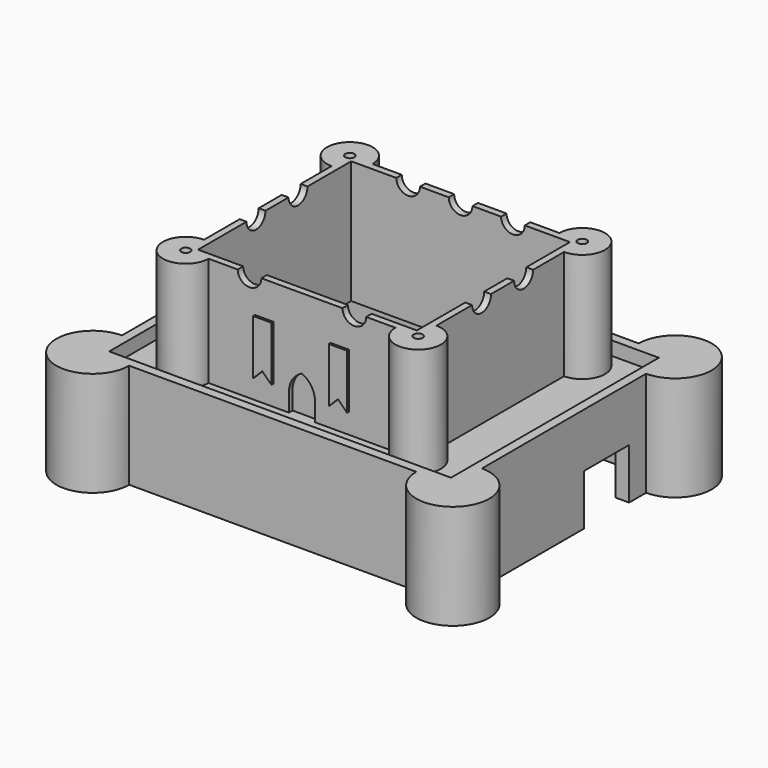
from build123d import *

# Parameters (mm, degrees)
SKETCH_W        = 79
SKETCH_H        = 61
SKETCH_W_2      = 73
SKETCH_H_2      = 55
PAD_DEPTH       = 17
SKETCH001_W     = 12.386978
SKETCH001_H     = 11.131831
POCKET_DEPTH    = 3
SKETCH002_W     = 79
SKETCH002_H     = 61
PAD001_DEPTH    = 3
PAD002_DEPTH    = 24
SKETCH004_W     = 48
SKETCH004_H     = 42
POCKET001_DEPTH = 44.001
SKETCH005_R     = 2.6
POCKET002_DEPTH = 65.001
SKETCH006_R     = 2.6
POCKET003_DEPTH = 53.001
SKETCH007_R     = 2.6
POCKET004_DEPTH = 1.5
SKETCH014_R     = 1
POCKET010_DEPTH = 44.001
POCKET013_DEPTH = 1
SKETCH018_W     = 79
SKETCH018_H     = 61
SKETCH018_W_2   = 75
SKETCH018_H_2   = 57
PAD004_DEPTH    = 3
SKETCH027_R     = 2
SKETCH027_R_2   = 1
PAD008_DEPTH    = 4.5
PAD009_DEPTH    = 23
SKETCH032_R     = 1
POCKET018_DEPTH = 19
PAD011_DEPTH    = 0.5


with BuildPart() as part:
    # Sketch → Pad (new body)
    with BuildSketch(Plane.XY):
        Rectangle(SKETCH_W, SKETCH_H)
        Rectangle(SKETCH_W_2, SKETCH_H_2, mode=Mode.SUBTRACT)
    extrude(amount=-PAD_DEPTH)

    # Sketch001 (on Face2 of Pad) → Pocket (cut)
    with BuildSketch(Plane.YZ.offset(39.5)):
        with Locations((11.641985, -11.4340845)):
            Rectangle(SKETCH001_W, SKETCH001_H)
    extrude(amount=-POCKET_DEPTH, mode=Mode.SUBTRACT)

    # Sketch002 (on Face4 of Pocket) → Pad001 (join)
    with BuildSketch(Plane.XY):
        Rectangle(SKETCH002_W, SKETCH002_H)
    extrude(amount=PAD001_DEPTH)

    # Sketch003 (on Face12 of Pad001) → Pad002 (join)
    with BuildSketch(Plane.XY.offset(3)):
        with BuildLine():
            Line((20.5, 22.5), (-20.5, 22.5))
            ThreePointArc((-20.5, 22.5), (-29.0355339059, 26.0355339059), (-25.5, 17.5))
            Line((-25.5, 17.5), (-25.5, -17.5))
            ThreePointArc((-25.5, -17.5), (-29.0355339059, -26.0355339059), (-20.5, -22.5))
            Line((-20.5, -22.5), (20.5, -22.5))
            ThreePointArc((20.5, -22.5), (29.0355339059, -26.0355339059), (25.5, -17.5))
            Line((25.5, -17.5), (25.5, 17.5))
            ThreePointArc((25.5, 17.5), (29.0355339059, 26.0355339059), (20.5, 22.5))
        make_face()
    extrude(amount=PAD002_DEPTH)

    # Sketch004 (on Face27 of Pad002) → Pocket001 (cut, through all)
    with BuildSketch(Plane.XY.offset(27)):
        Rectangle(SKETCH004_W, SKETCH004_H)
    extrude(amount=-POCKET001_DEPTH, mode=Mode.SUBTRACT)

    # Sketch005 (on Face24 of Pocket001) → Pocket002 (cut, through all)
    with BuildSketch(Plane.YZ.offset(25.5)):
        with Locations((-5.105409, 27)):
            Circle(SKETCH005_R)
        with Locations((6.42069, 27)):
            Circle(SKETCH005_R)
    extrude(amount=-POCKET002_DEPTH, mode=Mode.SUBTRACT)

    # Sketch006 (on Face22 of Pocket002) → Pocket003 (cut, through all)
    with BuildSketch(Plane.XZ.offset(22.5)):
        with Locations((-11.5015881496, 27)):
            Circle(SKETCH006_R)
        with Locations((11.491391, 27)):
            Circle(SKETCH006_R)
    extrude(amount=-POCKET003_DEPTH, mode=Mode.SUBTRACT)

    # Sketch007 (on Face18 of Pocket003) → Pocket004 (cut)
    with BuildSketch(Plane(origin=(0, 22.5, 0), x_dir=(-1, 0, 0), z_dir=(0, 1, 0))):
        with Locations((0, 27)):
            Circle(SKETCH007_R)
    extrude(amount=-POCKET004_DEPTH, mode=Mode.SUBTRACT)

    # Sketch014 (on Face34 of Pocket004) → Pocket010 (cut, through all)
    with BuildSketch(Plane.XY.offset(27)):
        with Locations((25.5, 22.5)):
            Circle(SKETCH014_R)
        with Locations((25.5, -22.5)):
            Circle(SKETCH014_R)
        with Locations((-25.5, -22.5)):
            Circle(SKETCH014_R)
        with Locations((-25.5, 22.5)):
            Circle(SKETCH014_R)
    extrude(amount=-POCKET010_DEPTH, mode=Mode.SUBTRACT)

    # Sketch019 (on Face22 of Pocket010) → Pocket013 (cut)
    with BuildSketch(Plane.XZ.offset(22.5)):
        with BuildLine():
            Line((2.8434957673, 7.4753916627), (2.8434957673, 3))
            Line((2.8434957673, 3), (-2.8434957673, 3))
            Line((-2.8434957673, 3), (-2.8434957673, 7.4753916627))
            ThreePointArc((0, 11.483943), (-1.9586480903, 9.8605214945), (-2.8434957673, 7.4753916627))
            ThreePointArc((2.8434957673, 7.4753916627), (1.9586480903, 9.8605214945), (0, 11.483943))
        make_face()
    extrude(amount=-POCKET013_DEPTH, mode=Mode.SUBTRACT)

    # Sketch018 (on Face12 of Pocket010) → Pad004 (join)
    with BuildSketch(Plane.XY.offset(3)):
        Rectangle(SKETCH018_W, SKETCH018_H)
        Rectangle(SKETCH018_W_2, SKETCH018_H_2, mode=Mode.SUBTRACT)
    extrude(amount=PAD004_DEPTH)

    # Sketch027 (on Face21 of Pad004) → Pad008 (join)
    with BuildSketch(Plane(origin=(0, 0, 0), x_dir=(1, 0, 0), z_dir=(0, 0, -1))):
        with Locations((-32.791588, 18.93561)):
            Circle(SKETCH027_R)
        with Locations((-32.791588, 18.93561)):
            Circle(SKETCH027_R_2, mode=Mode.SUBTRACT)
        with Locations((19.386917, 24.113913)):
            Circle(SKETCH027_R)
        with Locations((19.386917, 24.113913)):
            Circle(SKETCH027_R_2, mode=Mode.SUBTRACT)
        with Locations((18.004272, -24.177277)):
            Circle(SKETCH027_R)
        with Locations((18.004272, -24.177277)):
            Circle(SKETCH027_R_2, mode=Mode.SUBTRACT)
        with Locations((-32.796551, -9.026267)):
            Circle(SKETCH027_R)
        with Locations((-32.796551, -9.026267)):
            Circle(SKETCH027_R_2, mode=Mode.SUBTRACT)
    extrude(amount=PAD008_DEPTH)

    # Sketch028 (on Face5 of Pad008) → Pad009 (join)
    with BuildSketch(Plane(origin=(0, 0, -17), x_dir=(1, 0, 0), z_dir=(0, 0, -1))):
        with BuildLine():
            ThreePointArc((39.5, 22.5), (45.1568542495, 36.1568542495), (31.5, 30.5))
            Line((31.5, 30.5), (39.5, 30.5))
            Line((39.5, 30.5), (39.5, 22.5))
        make_face()
        with BuildLine():
            ThreePointArc((-31.5, 30.5), (-45.1568542495, 36.1568542495), (-39.5, 22.5))
            Line((-39.5, 22.5), (-39.5, 30.5))
            Line((-39.5, 30.5), (-31.5, 30.5))
        make_face()
        with BuildLine():
            ThreePointArc((-39.5, -22.5), (-45.1568542495, -36.1568542495), (-31.5, -30.5))
            Line((-31.5, -30.5), (-39.5, -30.5))
            Line((-39.5, -30.5), (-39.5, -22.5))
        make_face()
        with BuildLine():
            ThreePointArc((31.5, -30.5), (45.1568542495, -36.1568542495), (39.5, -22.5))
            Line((39.5, -22.5), (39.5, -30.5))
            Line((39.5, -30.5), (31.5, -30.5))
        make_face()
    extrude(amount=-PAD009_DEPTH)

    # Sketch032 (on Face12 of Pad009) → Pocket018 (cut)
    with BuildSketch(Plane(origin=(0, 0, -17), x_dir=(1, 0, 0), z_dir=(0, 0, -1))):
        with Locations((39.5, 30.5)):
            Circle(SKETCH032_R)
        with Locations((39.5, -30.5)):
            Circle(SKETCH032_R)
        with Locations((-39.5, 30.5)):
            Circle(SKETCH032_R)
        with Locations((-39.5, -30.5)):
            Circle(SKETCH032_R)
    extrude(amount=-POCKET018_DEPTH, mode=Mode.SUBTRACT)

    # Sketch033 (on Face89 of Pocket018) → Pad011 (join)
    with BuildSketch(Plane.XZ.offset(22.5)):
        Polygon((-10.2987765, 19.4466314572), (-6.2987765, 19.4466314572), (-6.2987765, 7.4466314572), (-8.2987765, 9.4466314572), (-10.2987765, 7.4466314572), align=None)
        Polygon((6.2987765, 19.4453464572), (10.2987765, 19.4453464572), (10.2987765, 7.4453464572), (8.2987765, 9.4453464572), (6.2987765, 7.4453464572), align=None)
    extrude(amount=PAD011_DEPTH)


solid = part.part
